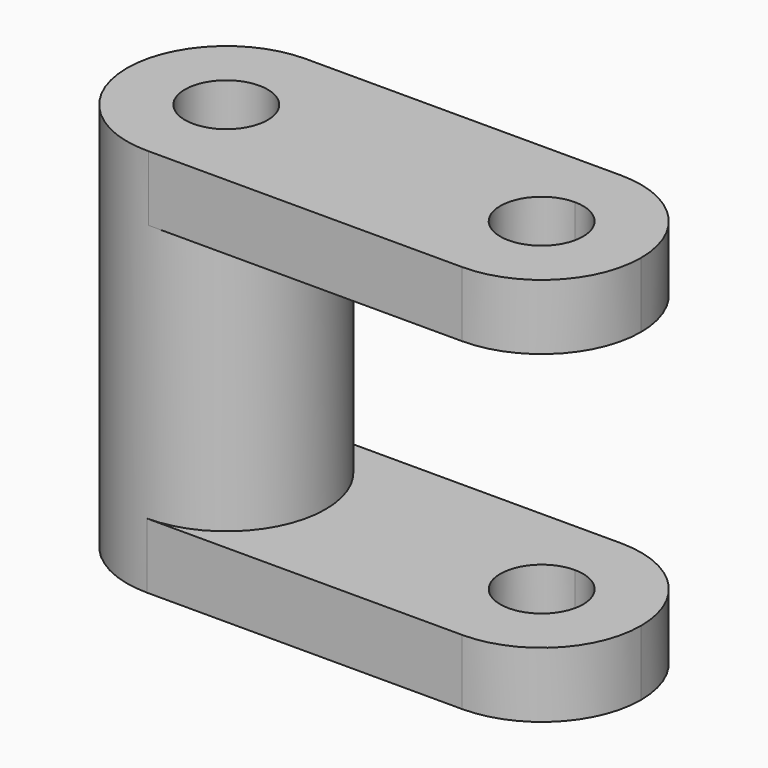
from build123d import *

# Parameters (mm, degrees)
F1_DEPTH = 12.7
F2_DEPTH = 75.692
F4_DEPTH = 12.7


with BuildPart() as f1:
    # F0 (on Top) → F1 (new body)
    with BuildSketch(Plane.XY):
        with BuildLine():
            ThreePointArc((0, 8.0484505981), (5.691113996, 5.691113996), (8.0484505981, 0))
            ThreePointArc((8.0484505981, 0), (5.691113996, -5.691113996), (0, -8.0484505981))
            Line((0, -8.0484505981), (0, -19.3179212511))
            ThreePointArc((0, -19.3179212511), (13.6598331151, -13.6598331151), (19.3179212511, 0))
            ThreePointArc((19.3179212511, 0), (13.6598331151, 13.6598331151), (0, 19.3179212511))
            Line((0, 19.3179212511), (0, 8.0484505981))
        make_face()
        with BuildLine():
            ThreePointArc((0, -8.0484505981), (-8.0484505981, 0), (0, 8.0484505981))
            Line((0, 8.0484505981), (0, 19.3179212511))
            ThreePointArc((0, 19.3179212511), (-19.3179212511, 0), (0, -19.3179212511))
            Line((0, -19.3179212511), (0, -8.0484505981))
        make_face()
        with BuildLine():
            Line((61.3472089171, 19.3179212511), (0, 19.3179212511))
            ThreePointArc((0, 19.3179212511), (13.6598331151, 13.6598331151), (19.3179212511, 0))
            ThreePointArc((19.3179212511, 0), (13.6598331151, -13.6598331151), (0, -19.3179212511))
            Line((0, -19.3179212511), (61.3472089171, -19.3179212511))
            ThreePointArc((61.3472089171, -19.3179212511), (42.0292876661, 0), (61.3472089171, 19.3179212511))
        make_face()
        with BuildLine():
            ThreePointArc((80.6651301682, 0), (75.0070420322, 13.6598331151), (61.3472089171, 19.3179212511))
            Line((61.3472089171, 19.3179212511), (61.3472089171, 8.0518))
            ThreePointArc((61.3472089171, 8.0518), (67.0406912979, 5.6934823808), (69.3990089171, 0))
            ThreePointArc((69.3990089171, 0), (67.0406912979, -5.6934823808), (61.3472089171, -8.0518))
            Line((61.3472089171, -8.0518), (61.3472089171, -19.3179212511))
            ThreePointArc((61.3472089171, -19.3179212511), (75.0070420322, -13.6598331151), (80.6651301682, 0))
        make_face()
        with BuildLine():
            Line((61.3472089171, 8.0518), (61.3472089171, 19.3179212511))
            ThreePointArc((61.3472089171, 19.3179212511), (42.0292876661, 0), (61.3472089171, -19.3179212511))
            Line((61.3472089171, -19.3179212511), (61.3472089171, -8.0518))
            ThreePointArc((61.3472089171, -8.0518), (53.2954089171, 0), (61.3472089171, 8.0518))
        make_face()
    extrude(amount=F1_DEPTH)

    # F0 (on Top) → F2 (join)
    with BuildSketch(Plane.XY):
        with BuildLine():
            ThreePointArc((0, -8.0484505981), (-8.0484505981, 0), (0, 8.0484505981))
            Line((0, 8.0484505981), (0, 19.3179212511))
            ThreePointArc((0, 19.3179212511), (-19.3179212511, 0), (0, -19.3179212511))
            Line((0, -19.3179212511), (0, -8.0484505981))
        make_face()
        with BuildLine():
            ThreePointArc((0, 8.0484505981), (5.691113996, 5.691113996), (8.0484505981, 0))
            ThreePointArc((8.0484505981, 0), (5.691113996, -5.691113996), (0, -8.0484505981))
            Line((0, -8.0484505981), (0, -19.3179212511))
            ThreePointArc((0, -19.3179212511), (13.6598331151, -13.6598331151), (19.3179212511, 0))
            ThreePointArc((19.3179212511, 0), (13.6598331151, 13.6598331151), (0, 19.3179212511))
            Line((0, 19.3179212511), (0, 8.0484505981))
        make_face()
    extrude(amount=F2_DEPTH)

    # F3 (on face) → F4 (join)
    with BuildSketch(Plane.XY.offset(75.692)):
        with BuildLine():
            ThreePointArc((19.3179212511, 0), (13.6598331151, 13.6598331151), (0, 19.3179212511))
            Line((0, 19.3179212511), (0, 8.0518))
            ThreePointArc((0, 8.0518), (5.6934823808, 5.6934823808), (8.0518, 0))
            ThreePointArc((8.0518, 0), (5.6934823808, -5.6934823808), (0, -8.0518))
            Line((0, -8.0518), (0, -19.3154787489))
            Line((0, -19.3154787489), (0.3071842465, -19.3154787489))
            ThreePointArc((0.3071842465, -19.3154787489), (13.7680107958, -13.5507918658), (19.3179212511, 0))
        make_face()
        with BuildLine():
            Line((61.341, 19.3179212511), (0, 19.3179212511))
            ThreePointArc((0, 19.3179212511), (13.6598331151, 13.6598331151), (19.3179212511, 0))
            ThreePointArc((19.3179212511, 0), (13.7680107958, -13.5507918658), (0.3071842465, -19.3154787489))
            Line((0.3071842465, -19.3154787489), (61.341, -19.3154787489))
            ThreePointArc((61.341, -19.3154787489), (42.0243, 0.0012212511), (61.341, 19.3179212511))
        make_face()
        with BuildLine():
            Line((0, 8.0518), (0, 19.3179212511))
            ThreePointArc((0, 19.3179212511), (-19.3173106159, -0.1535969784), (0.3071842465, -19.3154787489))
            Line((0.3071842465, -19.3154787489), (0, -19.3154787489))
            Line((0, -19.3154787489), (0, -8.0518))
            ThreePointArc((0, -8.0518), (-8.0518, 0), (0, 8.0518))
        make_face()
        with BuildLine():
            ThreePointArc((80.6577, 0.0012212511), (74.9999695601, 13.6601908112), (61.341, 19.3179212511))
            Line((61.341, 19.3179212511), (61.341, 8.0530212511))
            ThreePointArc((61.341, 8.0530212511), (67.0344823808, 5.6947036318), (69.3928, 0.0012212511))
            ThreePointArc((69.3928, 0.0012212511), (67.0344823808, -5.6922611297), (61.341, -8.0505787489))
            Line((61.341, -8.0505787489), (61.341, -19.3154787489))
            ThreePointArc((61.341, -19.3154787489), (74.9999695601, -13.6577483091), (80.6577, 0.0012212511))
        make_face()
        with BuildLine():
            Line((61.341, 8.0530212511), (61.341, 19.3179212511))
            ThreePointArc((61.341, 19.3179212511), (42.0243, 0.0012212511), (61.341, -19.3154787489))
            Line((61.341, -19.3154787489), (61.341, -8.0505787489))
            ThreePointArc((61.341, -8.0505787489), (53.2892, 0.0012212511), (61.341, 8.0530212511))
        make_face()
    extrude(amount=-F4_DEPTH)


solid = f1.part
